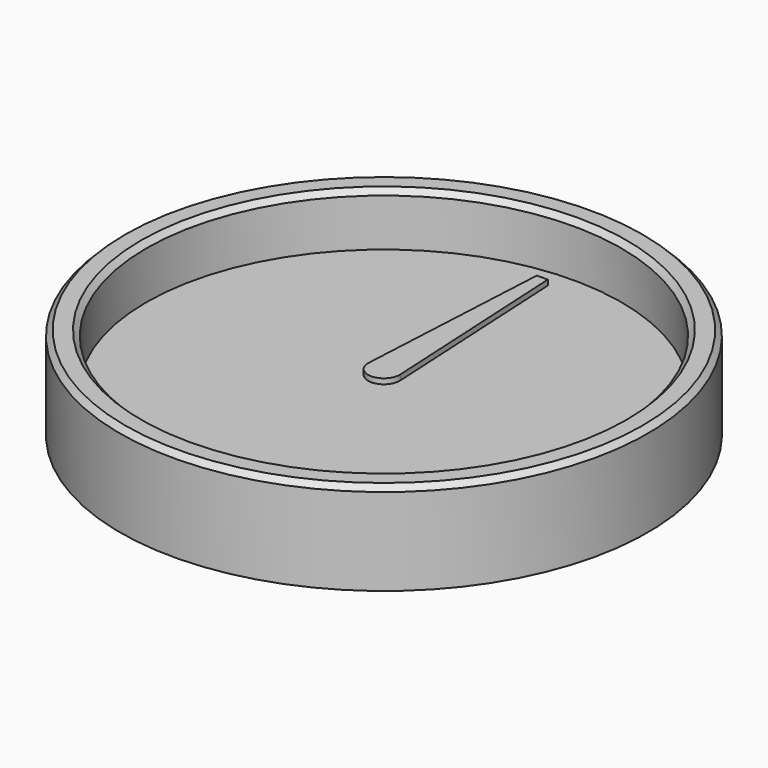
from build123d import *

# Parameters (mm, degrees)
F0_W     = 90
F0_H     = 15
F2_SIZE  = 2
F5_DEPTH = 2


with BuildPart() as f1:
    # F0 (on Front) → F1 (revolve)
    with BuildSketch(Plane.XZ):
        Polygon((-100, 0), (-90, 0), (-90, 15), (-90, 35), (-100, 35), align=None)
        with Locations((-45, 7.5)):
            Rectangle(F0_W, F0_H)
    revolve(axis=Axis((0, 0, 7.5), (0, 0, 1)))

    # F2
    f2_edges = [f1.edges().sort_by_distance(p)[0] for p in [
        (100, 0, 35),
        (90, 0, 35),
    ]]
    chamfer(f2_edges, length=F2_SIZE)


with BuildPart() as f5:
    # F4 (on offset) → F5 (new body)
    with BuildSketch(Plane.XY.offset(20)):
        with BuildLine():
            Line((-2.069417, 75), (-5.967131, 0.627171))
            ThreePointArc((-5.967131, 0.627171), (0, 6), (5.967131, 0.627171))
            Line((5.967131, 0.627171), (2.069417, 75))
            Line((2.069417, 75), (-2.069417, 75))
        make_face()
        with BuildLine():
            Line((-5.967131, 0.627171), (-6, 0))
            Line((-6, 0), (0, 0))
            Line((0, 0), (6, 0))
            Line((6, 0), (5.967131, 0.627171))
            ThreePointArc((5.967131, 0.627171), (0, 6), (-5.967131, 0.627171))
        make_face()
        with BuildLine():
            Line((0, 0), (-6, 0))
            ThreePointArc((-6, 0), (0, -6), (6, 0))
            Line((6, 0), (0, 0))
        make_face()
    extrude(amount=F5_DEPTH)


solid = Compound([f1.part, f5.part])
